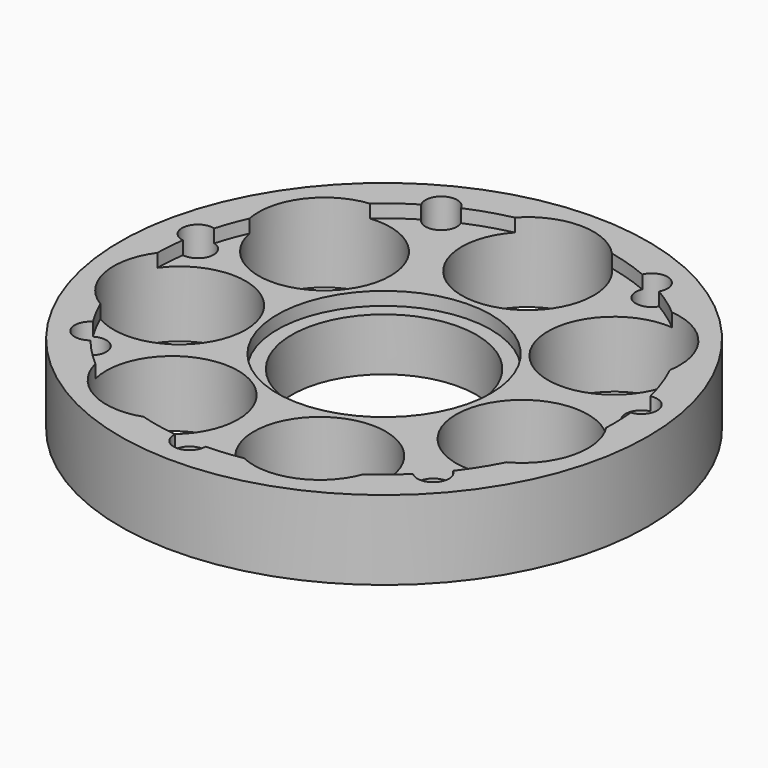
from build123d import *

# Parameters (mm, degrees)
F0_R      = 254
F1_DEPTH  = 76.2
F2_R      = 88.9
F3_DEPTH  = 152.4
F4_R      = 63.5
F5_DEPTH  = 152.4
F7_R      = 102.731788
F8_DEPTH  = 25.4
F9_R      = 220.675827
F10_DEPTH = 12.7
F6_R      = 15.24
F11_DEPTH = 152.4


with BuildPart() as f1:
    # F0 (on Top) → F1 (new body)
    with BuildSketch(Plane.XY):
        Circle(F0_R)
    extrude(amount=F1_DEPTH)

    # F2 (on face) → F3 (cut)
    with BuildSketch(Plane.XY.offset(76.2)):
        Circle(F2_R)
    extrude(amount=-F3_DEPTH, mode=Mode.SUBTRACT)

    # F4 (on face) → F5 (cut)
    with BuildSketch(Plane.XY.offset(76.2)):
        with Locations((0, 172.72)):
            Circle(F4_R)
        with Locations((136.619191, 105.675896)):
            Circle(F4_R)
        with Locations((167.255145, -43.103538)):
            Circle(F4_R)
        with Locations((-82.586414, -151.69602)):
            Circle(F4_R)
        with Locations((-169.291327, -34.243903)):
            Circle(F4_R)
        with Locations((-139.175909, 102.285213)):
            Circle(F4_R)
        with Locations((65.877814, -159.66312)):
            Circle(F4_R)
    extrude(amount=-F5_DEPTH, mode=Mode.SUBTRACT)

    # F7 (on face) → F8 (cut)
    with BuildSketch(Plane.XY.offset(76.2)):
        Circle(F7_R)
    extrude(amount=-F8_DEPTH, mode=Mode.SUBTRACT)

    # F9 (on face) → F10 (cut)
    with BuildSketch(Plane.XY.offset(76.2)):
        Circle(F9_R)
    extrude(amount=-F10_DEPTH, mode=Mode.SUBTRACT)

    # F6 (on face) → F11 (cut)
    with BuildSketch(Plane.XY.offset(76.2)):
        with Locations((-101.82795, 196.120445)):
            Circle(F6_R)
        with Locations((99.8231, 197.148444)):
            Circle(F6_R)
        with Locations((217.796701, 37.373219)):
            Circle(F6_R)
        with Locations((164.933983, -147.067813)):
            Circle(F6_R)
        with Locations((-180.397614, -127.627823)):
            Circle(F6_R)
        with Locations((-216.110642, 46.134055)):
            Circle(F6_R)
        with Locations((-10.606943, -220.725289)):
            Circle(F6_R)
    extrude(amount=-F11_DEPTH, mode=Mode.SUBTRACT)


solid = f1.part
